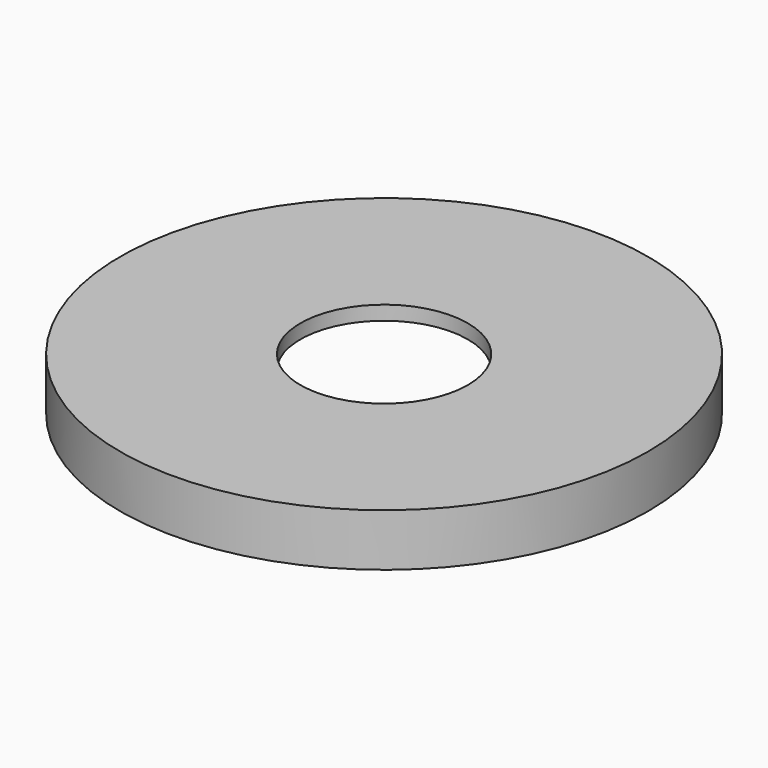
from build123d import *


with BuildPart() as part:
    # Sketch → Revolution (revolve)
    with BuildSketch(Plane.XZ):
        Polygon((11.8, 7.4), (11.8, 5.4), (35.2, 5.4), (35.2, 0), (37.2, 0), (37.2, 7.4), align=None)
    revolve(axis=Axis((0, 0, 0), (0, 0, 1)))


solid = part.part
